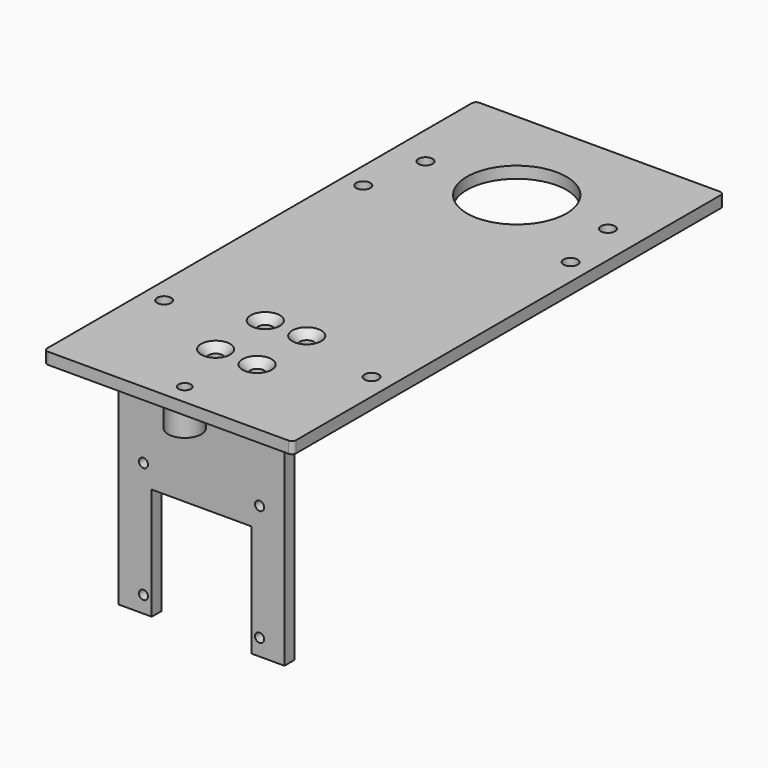
from build123d import *

# Parameters (mm, degrees)
SKETCH_W         = 60
SKETCH_H         = 130
PAD_DEPTH        = 2.8
FILLET_R         = 1
FILLET001_R      = 1
FILLET002_R      = 1
FILLET003_R      = 1
SKETCH001_R      = 12
SKETCH001_R_2    = 1.7
POCKET_DEPTH     = 2.8
SKETCH002_W      = 40
SKETCH002_H      = 3
PAD001_DEPTH     = 52
SKETCH007_R      = 1.1
SKETCH007_W      = 24
SKETCH007_H      = 27.426216
POCKET003_DEPTH  = 3
SKETCH009_W      = 18
SKETCH009_H      = 8
PAD003_DEPTH     = 5
COPYSKETCH010_R  = 4
PAD004_DEPTH     = 6
SKETCH011_R      = 1.5
POCKET005_DEPTH  = 10
SKETCH013_R      = 1.7
POCKET006_DEPTH  = 2.8
SKETCH014_R      = 1.7
POCKET007_DEPTH  = 2.8
POCKET008_DEPTH  = 1
HOLE_D           = 3
HOLE_DEPTH       = 24.098709
HOLE_CSINK_D     = 7
HOLE_CSINK_ANGLE = 90
HOLE_TIPS_R      = 1.5


with BuildPart() as part:
    # Sketch → Pad (new body)
    with BuildSketch(Plane.XY):
        Rectangle(SKETCH_W, SKETCH_H)
    extrude(amount=PAD_DEPTH)

    # Fillet
    fillet_edges = [part.edges().sort_by_distance(p)[0] for p in [
        (-30, 65, 1.4),
    ]]
    fillet(fillet_edges, radius=FILLET_R)

    # Fillet001
    fillet001_edges = [part.edges().sort_by_distance(p)[0] for p in [
        (30, 65, 1.4),
    ]]
    fillet(fillet001_edges, radius=FILLET001_R)

    # Fillet002
    fillet002_edges = [part.edges().sort_by_distance(p)[0] for p in [
        (-30, -65, 1.4),
    ]]
    fillet(fillet002_edges, radius=FILLET002_R)

    # Fillet003
    fillet003_edges = [part.edges().sort_by_distance(p)[0] for p in [
        (30, -65, 1.4),
    ]]
    fillet(fillet003_edges, radius=FILLET003_R)

    # Sketch001 (on Face10 of Fillet003) → Pocket (cut)
    with BuildSketch(Plane.XY.offset(2.8)):
        with Locations((0, 40)):
            Circle(SKETCH001_R)
        with Locations((-22, 40)):
            Circle(SKETCH001_R_2)
        with Locations((22, 40)):
            Circle(SKETCH001_R_2)
        with Locations((-25, -35)):
            Circle(SKETCH001_R_2)
        with Locations((25, -35)):
            Circle(SKETCH001_R_2)
        with Locations((-25, 25)):
            Circle(SKETCH001_R_2)
        with Locations((25, 25)):
            Circle(SKETCH001_R_2)
    extrude(amount=-POCKET_DEPTH, mode=Mode.SUBTRACT)

    # Sketch002 (on Face1 of Pocket) → Pad001 (join)
    with BuildSketch(Plane(origin=(0, 0, 0), x_dir=(1, 0, 0), z_dir=(0, 0, -1))):
        with Locations((0, 53.5)):
            Rectangle(SKETCH002_W, SKETCH002_H)
    extrude(amount=PAD001_DEPTH)

    # Sketch007 (on Face20 of Pad001) → Pocket003 (cut)
    with BuildSketch(Plane(origin=(0, -52, 0), x_dir=(-1, 0, 0), z_dir=(0, 1, 0))):
        with Locations((-14, -48)):
            Circle(SKETCH007_R)
        with Locations((14, -48)):
            Circle(SKETCH007_R)
        with Locations((14, -20)):
            Circle(SKETCH007_R)
        with Locations((-14, -20)):
            Circle(SKETCH007_R)
        with Locations((0, -38.713108)):
            Rectangle(SKETCH007_W, SKETCH007_H)
    extrude(amount=-POCKET003_DEPTH, mode=Mode.SUBTRACT)

    # Sketch009 → Pad003 (join)
    with BuildSketch(Plane(origin=(0, -52, 0), x_dir=(-1, 0, 0), z_dir=(0, 1, 0))):
        with Locations((0, -4)):
            Rectangle(SKETCH009_W, SKETCH009_H)
    extrude(amount=PAD003_DEPTH)

    # CopySketch010 → Pad004 (join)
    with BuildSketch(Plane(origin=(0, 0, 0), x_dir=(1, 0, 0), z_dir=(0, 0, -1))):
        with Locations((0, 60.064695)):
            Circle(COPYSKETCH010_R)
    extrude(amount=PAD004_DEPTH)

    # Sketch011 (on Face26 of Pad004) → Pocket005 (cut)
    with BuildSketch(Plane(origin=(0, 0, -6), x_dir=(1, 0, 0), z_dir=(0, 0, -1))):
        with Locations((0, 60.064695)):
            Circle(SKETCH011_R)
    extrude(amount=-POCKET005_DEPTH, mode=Mode.SUBTRACT)

    # Sketch013 (on Face1 of Pocket005) → Pocket006 (cut)
    with BuildSketch(Plane(origin=(0, 0, 0), x_dir=(1, 0, 0), z_dir=(0, 0, -1))):
        with Locations((-4.986458, 44.510635)):
            Circle(SKETCH013_R)
        with Locations((4.992854, 44.491314)):
            Circle(SKETCH013_R)
        with Locations((-4.984121, 29.546223)):
            Circle(SKETCH013_R)
        with Locations((4.992854, 29.527281)):
            Circle(SKETCH013_R)
    extrude(amount=-POCKET006_DEPTH, mode=Mode.SUBTRACT)

    # Sketch014 (on Face29 of Pocket006) → Pocket007 (cut)
    with BuildSketch(Plane.XY.offset(2.8)):
        with Locations((0, 40)):
            Circle(SKETCH014_R)
        with Locations((-4.984121, -29.546223)):
            Circle(SKETCH014_R)
        with Locations((4.992854, -44.491314)):
            Circle(SKETCH014_R)
        with Locations((-4.986458, -44.510635)):
            Circle(SKETCH014_R)
        with Locations((4.992854, -29.527281)):
            Circle(SKETCH014_R)
    extrude(amount=-POCKET007_DEPTH, mode=Mode.SUBTRACT)

    # Sketch014 (on Face29 of Pocket006) → Pocket008 (cut)
    with BuildSketch(Plane.XY.offset(2.8)):
        with Locations((0, 40)):
            Circle(SKETCH014_R)
        with Locations((-4.984121, -29.546223)):
            Circle(SKETCH014_R)
        with Locations((4.992854, -44.491314)):
            Circle(SKETCH014_R)
        with Locations((-4.986458, -44.510635)):
            Circle(SKETCH014_R)
        with Locations((4.992854, -29.527281)):
            Circle(SKETCH014_R)
    extrude(amount=-POCKET008_DEPTH, mode=Mode.SUBTRACT)

    # Hole
    with Locations(Plane.XY.offset(2.8)):
        with Locations((0, 40), (-4.984121, -29.546223), (4.992854, -44.491314), (-4.986458, -44.510635), (4.992854, -29.527281)):
            CounterSinkHole(HOLE_D / 2, HOLE_CSINK_D / 2, depth=HOLE_DEPTH, counter_sink_angle=HOLE_CSINK_ANGLE)

    # Hole tips → Hole tip 1 section 0
    with BuildSketch(Plane.XY.offset(-21.298709), mode=Mode.PRIVATE) as hole_tip_1_s0:
        with Locations((0, 40)):
            Circle(HOLE_TIPS_R)
    loft([hole_tip_1_s0.sketch, Vertex(0, 40, -22.2)], mode=Mode.SUBTRACT)

    # Hole tips → Hole tip 2 section 0
    with BuildSketch(Plane.XY.offset(-21.298709), mode=Mode.PRIVATE) as hole_tip_2_s0:
        with Locations((-4.984121, -29.546223)):
            Circle(HOLE_TIPS_R)
    loft([hole_tip_2_s0.sketch, Vertex(-4.984121, -29.546223, -22.2)], mode=Mode.SUBTRACT)

    # Hole tips → Hole tip 3 section 0
    with BuildSketch(Plane.XY.offset(-21.298709), mode=Mode.PRIVATE) as hole_tip_3_s0:
        with Locations((4.992854, -44.491314)):
            Circle(HOLE_TIPS_R)
    loft([hole_tip_3_s0.sketch, Vertex(4.992854, -44.491314, -22.2)], mode=Mode.SUBTRACT)

    # Hole tips → Hole tip 4 section 0
    with BuildSketch(Plane.XY.offset(-21.298709), mode=Mode.PRIVATE) as hole_tip_4_s0:
        with Locations((-4.986458, -44.510635)):
            Circle(HOLE_TIPS_R)
    loft([hole_tip_4_s0.sketch, Vertex(-4.986458, -44.510635, -22.2)], mode=Mode.SUBTRACT)

    # Hole tips → Hole tip 5 section 0
    with BuildSketch(Plane.XY.offset(-21.298709), mode=Mode.PRIVATE) as hole_tip_5_s0:
        with Locations((4.992854, -29.527281)):
            Circle(HOLE_TIPS_R)
    loft([hole_tip_5_s0.sketch, Vertex(4.992854, -29.527281, -22.2)], mode=Mode.SUBTRACT)


solid = part.part
